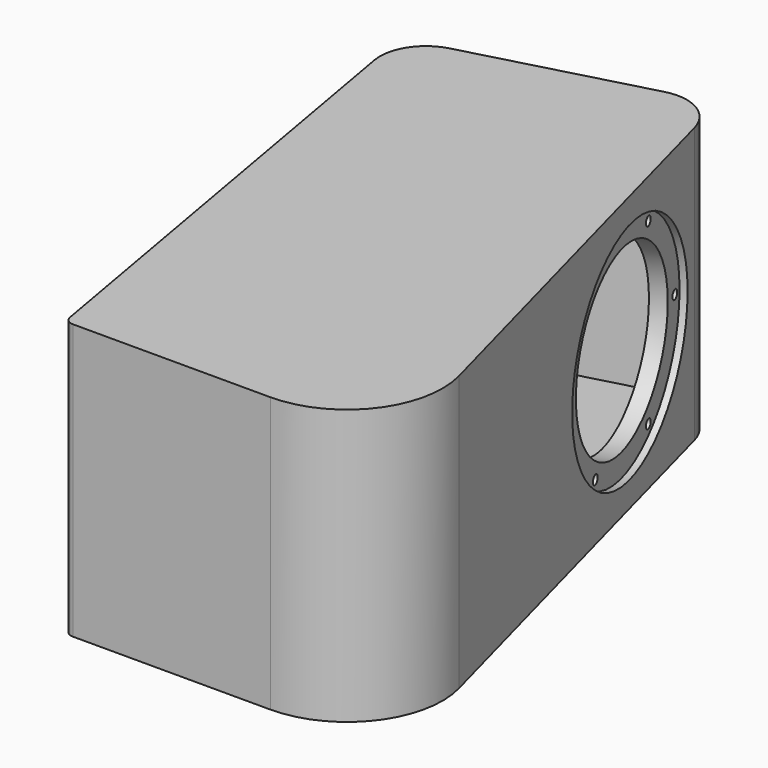
from build123d import *

# Parameters (mm, degrees)
F1_DEPTH = 60
F2_DEPTH = 50
F3_R     = 39
F4_DEPTH = 10
F3_R_2   = 49
F5_DEPTH = 3
F6_D     = 4
F6_DEPTH = 20
F6_TIP   = 1.2017212381


with BuildPart() as f1:
    # F0 (on Top) → F1 (new body, symmetric)
    with BuildSketch(Plane.XY):
        with BuildLine():
            ThreePointArc((-20.6806279512, -212.5965936405), (-39.6511040787, -210.0990830779), (-51.299249736, -194.9189241108))
            Line((-51.299249736, -194.9189241108), (-96.5925826289, -25.8819045103))
            ThreePointArc((-96.5925826289, -25.8819045103), (-96.7999862455, -25.034315887), (-96.9702211634, -24.1784871615))
            Line((-96.9702211634, -24.1784871615), (-59.4134556551, -237.1734885924))
            ThreePointArc((-59.4134556551, -237.1734885924), (-58.8379861015, -234.2804077793), (-56.4591683744, -232.5361864574))
            Line((-56.4591683744, -232.5361864574), (54.3519994715, -202.8444235207))
            ThreePointArc((54.3519994715, -202.8444235207), (60.4240630584, -198.1851652578), (61.4230672834, -190.5969748068))
            Line((61.4230672834, -190.5969748068), (52.3644007048, -156.7895708867))
            ThreePointArc((52.3644007048, -156.7895708867), (50.8658943672, -168.1718565632), (41.757798987, -175.1607439575))
            Line((41.757798987, -175.1607439575), (-25.8570088532, -193.2780771147))
            ThreePointArc((-25.8570088532, -193.2780771147), (-31.9807332102, -189.7425432088), (-28.4451993043, -183.6188188518))
            Line((-28.4451993043, -183.6188188518), (39.169608536, -165.5014856947))
            ThreePointArc((39.169608536, -165.5014856947), (49.7762102538, -147.1303126238), (31.4050371829, -136.523710906))
            Line((31.4050371829, -136.523710906), (-36.2097706573, -154.6410440632))
            ThreePointArc((-36.2097706573, -154.6410440632), (-42.3334950143, -151.1055101572), (-38.7979611084, -144.9817858003))
            Line((-38.7979611084, -144.9817858003), (28.8168467319, -126.8644526431))
            ThreePointArc((28.8168467319, -126.8644526431), (37.9249421121, -119.8755652488), (39.4234484497, -108.4932795722))
            Line((39.4234484497, -108.4932795722), (9.6592582629, 2.588190451))
            ThreePointArc((9.6592582629, 2.588190451), (5, 8.6602540378), (-2.588190451, 9.6592582629))
            Line((-2.588190451, 9.6592582629), (-79.8622565541, -11.0462653453))
            ThreePointArc((-79.8622565541, -11.0462653453), (-85.934320141, -15.7055236082), (-86.933324366, -23.2937140592))
            Line((-86.933324366, -23.2937140592), (-61.0514198558, -119.8862966881))
            ThreePointArc((-61.0514198558, -119.8862966881), (-56.3921615929, -125.958360275), (-48.8039711418, -126.9573645))
            Line((-48.8039711418, -126.9573645), (23.6404658298, -107.5459361173))
            ThreePointArc((23.6404658298, -107.5459361173), (29.7641901868, -111.0814700232), (26.2286562809, -117.2051943802))
            Line((26.2286562809, -117.2051943802), (-41.3861515594, -135.3225275374))
            ThreePointArc((-41.3861515594, -135.3225275374), (-51.9927532772, -153.6937006083), (-33.6215802063, -164.300302326))
            Line((-33.6215802063, -164.300302326), (33.9932276339, -146.1829691689))
            ThreePointArc((33.9932276339, -146.1829691689), (40.1169519909, -149.7185030748), (36.581418085, -155.8422274318))
            Line((36.581418085, -155.8422274318), (-31.0333897553, -173.9595605889))
            ThreePointArc((-31.0333897553, -173.9595605889), (-41.6399914731, -192.3307336598), (-23.2688184022, -202.9373353776))
            Line((-23.2688184022, -202.9373353776), (44.345989438, -184.8200022204))
            ThreePointArc((44.345989438, -184.8200022204), (50.469713795, -188.3555361264), (46.9341798891, -194.4792604833))
            Line((46.9341798891, -194.4792604833), (-20.6806279512, -212.5965936405))
        make_face()
        with BuildLine():
            Line((-96.5925826289, -25.8819045103), (-51.299249736, -194.9189241108))
            ThreePointArc((-51.299249736, -194.9189241108), (-39.6511040787, -210.0990830779), (-20.6806279512, -212.5965936405))
            Line((-20.6806279512, -212.5965936405), (46.9341798891, -194.4792604833))
            ThreePointArc((46.9341798891, -194.4792604833), (50.469713795, -188.3555361264), (44.345989438, -184.8200022204))
            Line((44.345989438, -184.8200022204), (-23.2688184022, -202.9373353776))
            ThreePointArc((-23.2688184022, -202.9373353776), (-41.6399914731, -192.3307336598), (-31.0333897553, -173.9595605889))
            Line((-31.0333897553, -173.9595605889), (36.581418085, -155.8422274318))
            ThreePointArc((36.581418085, -155.8422274318), (40.1169519909, -149.7185030748), (33.9932276339, -146.1829691689))
            Line((33.9932276339, -146.1829691689), (-33.6215802063, -164.300302326))
            ThreePointArc((-33.6215802063, -164.300302326), (-51.9927532772, -153.6937006083), (-41.3861515594, -135.3225275374))
            Line((-41.3861515594, -135.3225275374), (26.2286562809, -117.2051943802))
            ThreePointArc((26.2286562809, -117.2051943802), (29.7641901868, -111.0814700232), (23.6404658298, -107.5459361173))
            Line((23.6404658298, -107.5459361173), (-48.8039711418, -126.9573645))
            ThreePointArc((-48.8039711418, -126.9573645), (-56.3921615929, -125.958360275), (-61.0514198558, -119.8862966881))
            Line((-61.0514198558, -119.8862966881), (-86.933324366, -23.2937140592))
            ThreePointArc((-86.933324366, -23.2937140592), (-85.934320141, -15.7055236082), (-79.8622565541, -11.0462653453))
            Line((-79.8622565541, -11.0462653453), (-2.588190451, 9.6592582629))
            ThreePointArc((-2.588190451, 9.6592582629), (5, 8.6602540378), (9.6592582629, 2.588190451))
            Line((9.6592582629, 2.588190451), (39.4234484497, -108.4932795722))
            ThreePointArc((39.4234484497, -108.4932795722), (37.9249421121, -119.8755652488), (28.8168467319, -126.8644526431))
            Line((28.8168467319, -126.8644526431), (-38.7979611084, -144.9817858003))
            ThreePointArc((-38.7979611084, -144.9817858003), (-42.3334950143, -151.1055101572), (-36.2097706573, -154.6410440632))
            Line((-36.2097706573, -154.6410440632), (31.4050371829, -136.523710906))
            ThreePointArc((31.4050371829, -136.523710906), (49.7762102538, -147.1303126238), (39.169608536, -165.5014856947))
            Line((39.169608536, -165.5014856947), (-28.4451993043, -183.6188188518))
            ThreePointArc((-28.4451993043, -183.6188188518), (-31.9807332102, -189.7425432088), (-25.8570088532, -193.2780771147))
            Line((-25.8570088532, -193.2780771147), (41.757798987, -175.1607439575))
            ThreePointArc((41.757798987, -175.1607439575), (50.8658943672, -168.1718565632), (52.3644007048, -156.7895708867))
            Line((52.3644007048, -156.7895708867), (61.4230672834, -190.5969748068))
            ThreePointArc((61.4230672834, -190.5969748068), (60.4240630584, -198.1851652578), (54.3519994715, -202.8444235207))
            Line((54.3519994715, -202.8444235207), (-56.4591683744, -232.5361864574))
            ThreePointArc((-56.4591683744, -232.5361864574), (-58.8379861015, -234.2804077793), (-59.4134556551, -237.1734885924))
            ThreePointArc((-59.4134556551, -237.1734885924), (-58.0216629892, -239.5841442033), (-55.4059483937, -240.5361864574))
            Line((-55.4059483937, -240.5361864574), (30.7766323053, -240.5361864574))
            ThreePointArc((30.7766323053, -240.5361864574), (63.8813029697, -224.210769539), (71.0823255463, -188.0087843558))
            Line((71.0823255463, -188.0087843558), (19.3185165258, 5.1763809021))
            ThreePointArc((19.3185165258, 5.1763809021), (10, 17.3205080757), (-5.1763809021, 19.3185165258))
            Line((-5.1763809021, 19.3185165258), (-82.4504470052, -1.3870070824))
            ThreePointArc((-82.4504470052, -1.3870070824), (-94.1418950194, -9.9595314413), (-96.9702211634, -24.1784871615))
            ThreePointArc((-96.9702211634, -24.1784871615), (-96.7999862455, -25.034315887), (-96.5925826289, -25.8819045103))
        make_face()
    extrude(amount=F1_DEPTH, both=True)

    # F0 (on Top) → F2 (cut, symmetric)
    with BuildSketch(Plane.XY):
        with BuildLine():
            ThreePointArc((-20.6806279512, -212.5965936405), (-39.6511040787, -210.0990830779), (-51.299249736, -194.9189241108))
            Line((-51.299249736, -194.9189241108), (-96.5925826289, -25.8819045103))
            ThreePointArc((-96.5925826289, -25.8819045103), (-96.7999862455, -25.034315887), (-96.9702211634, -24.1784871615))
            Line((-96.9702211634, -24.1784871615), (-59.4134556551, -237.1734885924))
            ThreePointArc((-59.4134556551, -237.1734885924), (-58.8379861015, -234.2804077793), (-56.4591683744, -232.5361864574))
            Line((-56.4591683744, -232.5361864574), (54.3519994715, -202.8444235207))
            ThreePointArc((54.3519994715, -202.8444235207), (60.4240630584, -198.1851652578), (61.4230672834, -190.5969748068))
            Line((61.4230672834, -190.5969748068), (52.3644007048, -156.7895708867))
            ThreePointArc((52.3644007048, -156.7895708867), (50.8658943672, -168.1718565632), (41.757798987, -175.1607439575))
            Line((41.757798987, -175.1607439575), (-25.8570088532, -193.2780771147))
            ThreePointArc((-25.8570088532, -193.2780771147), (-31.9807332102, -189.7425432088), (-28.4451993043, -183.6188188518))
            Line((-28.4451993043, -183.6188188518), (39.169608536, -165.5014856947))
            ThreePointArc((39.169608536, -165.5014856947), (49.7762102538, -147.1303126238), (31.4050371829, -136.523710906))
            Line((31.4050371829, -136.523710906), (-36.2097706573, -154.6410440632))
            ThreePointArc((-36.2097706573, -154.6410440632), (-42.3334950143, -151.1055101572), (-38.7979611084, -144.9817858003))
            Line((-38.7979611084, -144.9817858003), (28.8168467319, -126.8644526431))
            ThreePointArc((28.8168467319, -126.8644526431), (37.9249421121, -119.8755652488), (39.4234484497, -108.4932795722))
            Line((39.4234484497, -108.4932795722), (9.6592582629, 2.588190451))
            ThreePointArc((9.6592582629, 2.588190451), (5, 8.6602540378), (-2.588190451, 9.6592582629))
            Line((-2.588190451, 9.6592582629), (-79.8622565541, -11.0462653453))
            ThreePointArc((-79.8622565541, -11.0462653453), (-85.934320141, -15.7055236082), (-86.933324366, -23.2937140592))
            Line((-86.933324366, -23.2937140592), (-61.0514198558, -119.8862966881))
            ThreePointArc((-61.0514198558, -119.8862966881), (-56.3921615929, -125.958360275), (-48.8039711418, -126.9573645))
            Line((-48.8039711418, -126.9573645), (23.6404658298, -107.5459361173))
            ThreePointArc((23.6404658298, -107.5459361173), (29.7641901868, -111.0814700232), (26.2286562809, -117.2051943802))
            Line((26.2286562809, -117.2051943802), (-41.3861515594, -135.3225275374))
            ThreePointArc((-41.3861515594, -135.3225275374), (-51.9927532772, -153.6937006083), (-33.6215802063, -164.300302326))
            Line((-33.6215802063, -164.300302326), (33.9932276339, -146.1829691689))
            ThreePointArc((33.9932276339, -146.1829691689), (40.1169519909, -149.7185030748), (36.581418085, -155.8422274318))
            Line((36.581418085, -155.8422274318), (-31.0333897553, -173.9595605889))
            ThreePointArc((-31.0333897553, -173.9595605889), (-41.6399914731, -192.3307336598), (-23.2688184022, -202.9373353776))
            Line((-23.2688184022, -202.9373353776), (44.345989438, -184.8200022204))
            ThreePointArc((44.345989438, -184.8200022204), (50.469713795, -188.3555361264), (46.9341798891, -194.4792604833))
            Line((46.9341798891, -194.4792604833), (-20.6806279512, -212.5965936405))
        make_face()
    extrude(amount=F2_DEPTH, both=True, mode=Mode.SUBTRACT)

    # F3 (on face) → F4 (cut)
    with BuildSketch(Plane(origin=(19.3185165258, 5.1763809021, 0), x_dir=(-0.2588190451, 0.9659258263, 0), z_dir=(0.9659258263, 0.2588190451, 0))):
        with Locations((-55, 0)):
            Circle(F3_R)
    extrude(amount=-F4_DEPTH, mode=Mode.SUBTRACT)

    # F3 (on face) → F5 (cut)
    with BuildSketch(Plane(origin=(19.3185165258, 5.1763809021, 0), x_dir=(-0.2588190451, 0.9659258263, 0), z_dir=(0.9659258263, 0.2588190451, 0))):
        with Locations((-55, 0)):
            Circle(F3_R_2)
        with Locations((-55, 0)):
            Circle(F3_R, mode=Mode.SUBTRACT)
    extrude(amount=-F5_DEPTH, mode=Mode.SUBTRACT)

    # F6
    with Locations(Plane(origin=(19.3185165258, 5.1763809021, 0), x_dir=(-0.2588190451, 0.9659258263, 0), z_dir=(0.9659258263, 0.2588190451, 0))):
        with Locations((-10, 0), (-32.5, -38.9711431703), (-77.5, -38.9711431703), (-100, 0), (-77.5, 38.9711431703), (-32.5, 38.9711431703)):
            Hole(F6_D / 2, depth=F6_DEPTH)
            with Locations((0, 0, -(F6_DEPTH + F6_TIP / 2))):  # 118° drill point
                Cone(0, F6_D / 2, F6_TIP, mode=Mode.SUBTRACT)


solid = f1.part
